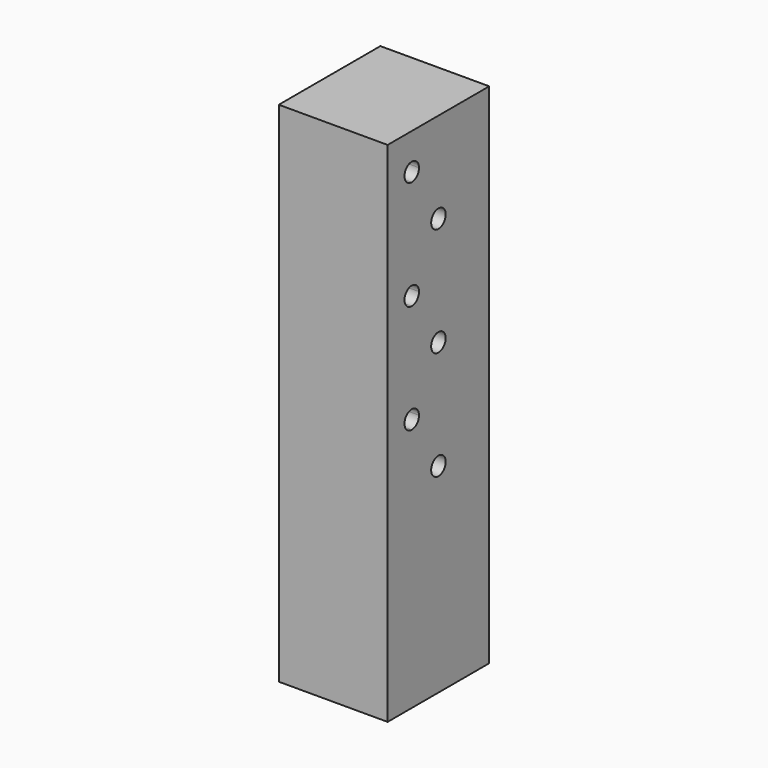
from build123d import *

# Parameters (mm, degrees)
F0_W     = 10.5533769431
F0_H     = 69.85
F1_DEPTH = 38.1


with BuildPart() as f1:
    # F0 (on Right) → F1 (new body)
    with BuildSketch(Plane.YZ):
        with Locations((-16.9483115284, -53.975)):
            Rectangle(F0_W, F0_H)
        with BuildLine():
            Line((22.225, -88.9), (22.225, -19.05))
            Line((22.225, -19.05), (3.175, -19.05))
            ThreePointArc((3.175, -19.05), (0, -22.225), (-3.175, -19.05))
            Line((-3.175, -19.05), (-11.6716230569, -19.05))
            Line((-11.6716230569, -19.05), (-11.6716230569, -88.9))
            Line((-11.6716230569, -88.9), (22.225, -88.9))
        make_face()
        with BuildLine():
            Line((-14.8466230569, 38.1000004709), (-22.225, 38.1000004709))
            Line((-22.225, 38.1000004709), (-22.225, 19.05))
            Line((-22.225, 19.05), (-11.6716230569, 19.05))
            Line((-11.6716230569, 19.05), (-11.6716230569, 34.9250004709))
            ThreePointArc((-11.6716230569, 34.9250004709), (-13.9166870871, 35.8549364406), (-14.8466230569, 38.1000004709))
        make_face()
        with BuildLine():
            Line((-11.6716230569, 19.05), (-22.225, 19.05))
            Line((-22.225, 19.05), (-22.225, -19.05))
            Line((-22.225, -19.05), (-11.6716230569, -19.05))
            Line((-11.6716230569, -19.05), (-11.6716230569, -3.175))
            ThreePointArc((-11.6716230569, -3.175), (-14.8466230569, 0), (-11.6716230569, 3.175))
            Line((-11.6716230569, 3.175), (-11.6716230569, 19.05))
        make_face()
        with BuildLine():
            Line((22.225, 88.9), (-22.225, 88.9))
            Line((-22.225, 88.9), (-22.225, 76.2769728899))
            Line((-22.225, 76.2769728899), (-14.8466230569, 76.2769728899))
            ThreePointArc((-14.8466230569, 76.2769728899), (-11.6716230569, 79.4519728899), (-8.4966230569, 76.2769728899))
            Line((-8.4966230569, 76.2769728899), (22.225, 76.2769728899))
            Line((22.225, 76.2769728899), (22.225, 88.9))
        make_face()
        with BuildLine():
            Line((22.225, 19.05), (22.225, 38.1000004709))
            Line((22.225, 38.1000004709), (-8.4966230569, 38.1000004709))
            ThreePointArc((-8.4966230569, 38.1000004709), (-9.4265590266, 35.8549364406), (-11.6716230569, 34.9250004709))
            Line((-11.6716230569, 34.9250004709), (-11.6716230569, 19.05))
            Line((-11.6716230569, 19.05), (-3.175, 19.05))
            ThreePointArc((-3.175, 19.05), (0, 22.225), (3.175, 19.05))
            Line((3.175, 19.05), (22.225, 19.05))
        make_face()
        with BuildLine():
            Line((22.225, 57.15), (22.225, 76.2769728899))
            Line((22.225, 76.2769728899), (-8.4966230569, 76.2769728899))
            ThreePointArc((-8.4966230569, 76.2769728899), (-9.4265590266, 74.0319088596), (-11.6716230569, 73.1019728899))
            Line((-11.6716230569, 73.1019728899), (-11.6716230569, 57.15))
            Line((-11.6716230569, 57.15), (-3.175, 57.15))
            ThreePointArc((-3.175, 57.15), (0, 60.325), (3.175, 57.15))
            Line((3.175, 57.15), (22.225, 57.15))
        make_face()
        with BuildLine():
            Line((-14.8466230569, 76.2769728899), (-22.225, 76.2769728899))
            Line((-22.225, 76.2769728899), (-22.225, 57.15))
            Line((-22.225, 57.15), (-11.6716230569, 57.15))
            Line((-11.6716230569, 57.15), (-11.6716230569, 73.1019728899))
            ThreePointArc((-11.6716230569, 73.1019728899), (-13.9166870871, 74.0319088596), (-14.8466230569, 76.2769728899))
        make_face()
        with BuildLine():
            Line((-11.6716230569, 57.15), (-22.225, 57.15))
            Line((-22.225, 57.15), (-22.225, 38.1000004709))
            Line((-22.225, 38.1000004709), (-14.8466230569, 38.1000004709))
            ThreePointArc((-14.8466230569, 38.1000004709), (-13.9166870871, 40.3450645011), (-11.6716230569, 41.2750004709))
            Line((-11.6716230569, 41.2750004709), (-11.6716230569, 57.15))
        make_face()
        with BuildLine():
            Line((22.225, 38.1000004709), (22.225, 57.15))
            Line((22.225, 57.15), (3.175, 57.15))
            ThreePointArc((3.175, 57.15), (0, 53.975), (-3.175, 57.15))
            Line((-3.175, 57.15), (-11.6716230569, 57.15))
            Line((-11.6716230569, 57.15), (-11.6716230569, 41.2750004709))
            ThreePointArc((-11.6716230569, 41.2750004709), (-9.4265590266, 40.3450645011), (-8.4966230569, 38.1000004709))
            Line((-8.4966230569, 38.1000004709), (22.225, 38.1000004709))
        make_face()
        with BuildLine():
            Line((22.225, -19.05), (22.225, 19.05))
            Line((22.225, 19.05), (3.175, 19.05))
            ThreePointArc((3.175, 19.05), (0, 15.875), (-3.175, 19.05))
            Line((-3.175, 19.05), (-11.6716230569, 19.05))
            Line((-11.6716230569, 19.05), (-11.6716230569, 3.175))
            ThreePointArc((-11.6716230569, 3.175), (-9.4265590266, 2.2450640303), (-8.4966230569, 0))
            ThreePointArc((-8.4966230569, 0), (-9.4265590266, -2.2450640303), (-11.6716230569, -3.175))
            Line((-11.6716230569, -3.175), (-11.6716230569, -19.05))
            Line((-11.6716230569, -19.05), (-3.175, -19.05))
            ThreePointArc((-3.175, -19.05), (0, -15.875), (3.175, -19.05))
            Line((3.175, -19.05), (22.225, -19.05))
        make_face()
        with BuildLine():
            Line((22.225, -88.9), (22.225, -19.05))
            Line((22.225, -19.05), (3.175, -19.05))
            ThreePointArc((3.175, -19.05), (0, -22.225), (-3.175, -19.05))
            Line((-3.175, -19.05), (-11.6716230569, -19.05))
            Line((-11.6716230569, -19.05), (-11.6716230569, -88.9))
            Line((-11.6716230569, -88.9), (22.225, -88.9))
        make_face()
    extrude(amount=F1_DEPTH)


solid = f1.part
